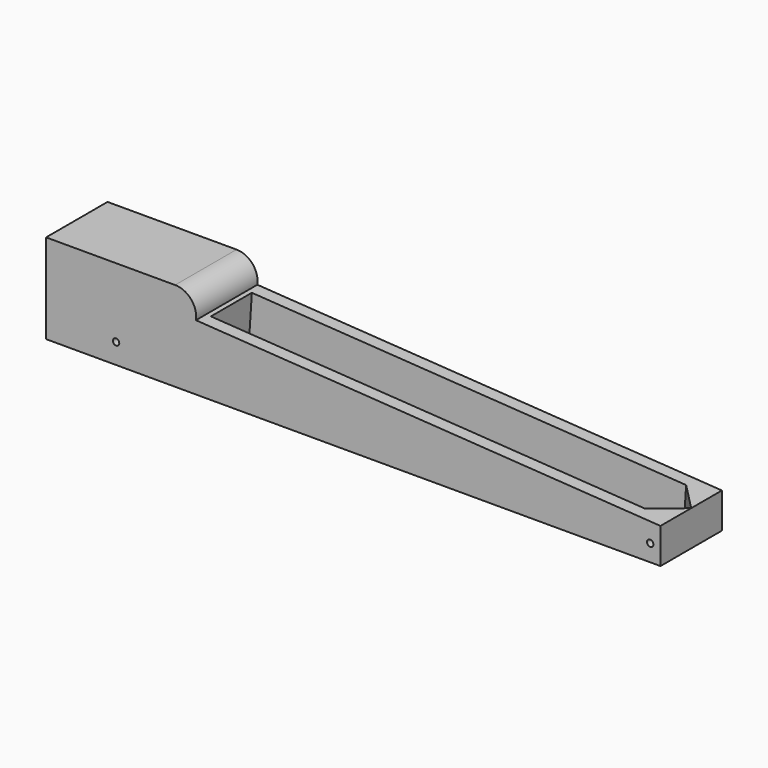
from build123d import *

# Parameters (mm, degrees)
F1_DEPTH  = 38.1
F2_R      = 9.525
F3_DEPTH  = 50.8
F5_R      = 9.525
F6_DEPTH  = 44.45
F8_DEPTH  = 46.482
F10_DEPTH = 38.1
F11_R     = 1.5875
F12_DEPTH = 57.15


with BuildPart() as f1:
    # F0 (on Front) → F1 (new body)
    with BuildSketch(Plane.XZ):
        Polygon((0, 63.5), (0, 0), (304.8, 0), (304.8, 19.05), align=None)
    extrude(amount=F1_DEPTH)

    # F2 (on face) → F3 (join)
    with BuildSketch(Plane(origin=(0, 0, 0), x_dir=(0, -1, 0), z_dir=(-1, 0, 0))):
        with Locations((19.05, 31.75)):
            Circle(F2_R)
    extrude(amount=-F3_DEPTH)

    # F5 (on face) → F6 (cut)
    with BuildSketch(Plane(origin=(0, 0, 0), x_dir=(0, -1, 0), z_dir=(-1, 0, 0))):
        with Locations((19.05, 31.75)):
            Circle(F5_R)
    extrude(amount=-F6_DEPTH, mode=Mode.SUBTRACT)

    # F7 (on face) → F8 (cut)
    with BuildSketch(Plane.XZ.offset(38.1)):
        with BuildLine():
            Line((0, 63.5), (0, 44.45))
            Line((0, 44.45), (64.008, 44.45))
            ThreePointArc((64.008, 44.45), (71.925847, 40.815134), (74.330844, 32.441333))
            Line((74.330844, 32.441333), (304.799885, 17.554725))
            Line((304.799885, 17.554725), (304.799885, 0))
            Line((304.799885, 0), (304.8, 0))
            Line((304.8, 0), (304.8, 19.05))
            Line((304.8, 19.05), (0, 63.5))
        make_face()
    extrude(amount=-F8_DEPTH, mode=Mode.SUBTRACT)

    # F9 (on face) → F10 (cut)
    with BuildSketch(Plane(origin=(2.395601, 0, 37.087822), x_dir=(0.99792, 0, -0.064458), z_dir=(0.064458, 0, 0.99792))):
        Polygon((303.034474, -19.05), (290.334474, -6.35), (74.434474, -6.35), (74.434474, -31.75), (290.334474, -31.75), align=None)
    extrude(amount=-F10_DEPTH, mode=Mode.SUBTRACT)

    # F11 (on face) → F12 (cut)
    with BuildSketch(Plane.XZ.offset(38.1)):
        with Locations((34.718972, 10.036203)):
            Circle(F11_R)
        with Locations((299.694479, 8.33375)):
            Circle(F11_R)
    extrude(amount=-F12_DEPTH, mode=Mode.SUBTRACT)


solid = f1.part
